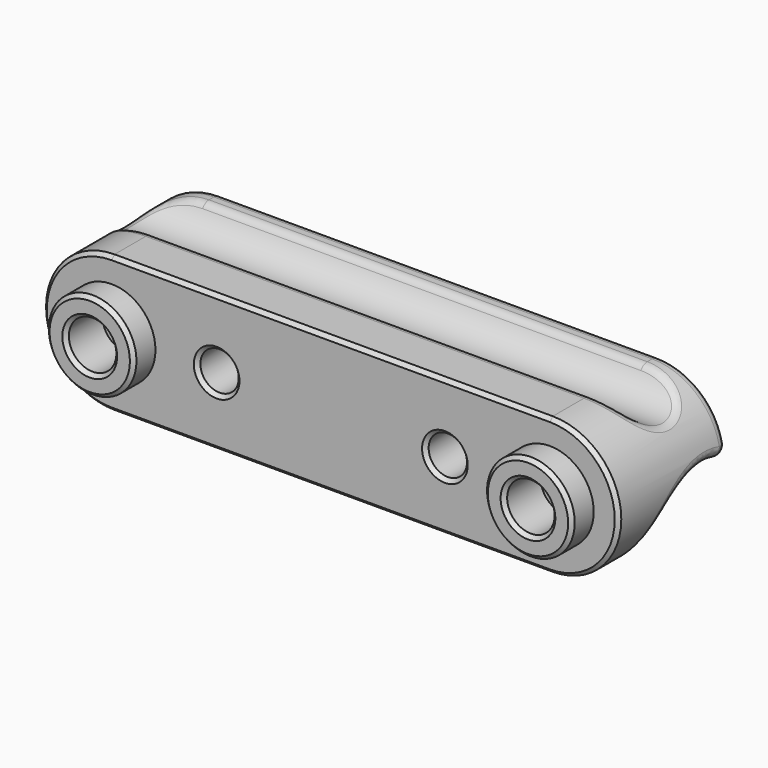
from build123d import *

# Parameters (mm, degrees)
SKETCH039_R          = 4.8
PAD016_DEPTH         = 3
PAD017_DEPTH         = 15
SKETCH041_R          = 2.1
POCKET022_DEPTH      = 5
SKETCH042_R          = 2.6
POCKET023_DEPTH      = 5
CHAMFER020_SIZE      = 0.4
SKETCH043_R          = 7.5
SKETCH043_R_2        = 4
POCKET024_DEPTH      = 31.501
POCKET024_DEPTH_BACK = 31.501
FILLET023_R          = 1


with BuildPart() as part:
    # Sketch039 → Pad016 (new body)
    with BuildSketch(Plane.XZ):
        with Locations((-24, 40)):
            Circle(SKETCH039_R)
        with Locations((24, 40)):
            Circle(SKETCH039_R)
    extrude(amount=-PAD016_DEPTH)

    # Sketch040 (on Face6 of Pad016) → Pad017 (join)
    with BuildSketch(Plane(origin=(0, 3, 0), x_dir=(-1, 0, 0), z_dir=(0, 1, 0))):
        with BuildLine():
            ThreePointArc((-24, 47.5), (-31.5, 40), (-24, 32.5))
            Line((-24, 32.5), (24, 32.5))
            ThreePointArc((24, 32.5), (31.5, 40), (24, 47.5))
            Line((24, 47.5), (-24, 47.5))
        make_face()
    extrude(amount=PAD017_DEPTH)

    # Sketch041 (on Face3 of Pad017) → Pocket022 (cut)
    with BuildSketch(Plane.XZ.offset(-3)):
        with Locations((-12.5, 40)):
            Circle(SKETCH041_R)
        with Locations((12.5, 40)):
            Circle(SKETCH041_R)
    extrude(amount=-POCKET022_DEPTH, mode=Mode.SUBTRACT)

    # Sketch042 → Pocket023 (cut)
    with BuildSketch(Plane.XZ):
        with Locations((-24, 40)):
            Circle(SKETCH042_R)
        with Locations((24, 40)):
            Circle(SKETCH042_R)
    extrude(amount=-POCKET023_DEPTH, mode=Mode.SUBTRACT)

    # Chamfer020
    chamfer020_edges = [part.edges().sort_by_distance(p)[0] for p in [
        (-26.6, 0, 40),
        (21.4, 0, 40),
        (-28.8, 0, 40),
        (19.2, 0, 40),
        (-14.6, 3, 40),
        (10.4, 3, 40),
        (0, 3, 47.5),
    ]]
    chamfer(chamfer020_edges, length=CHAMFER020_SIZE)

    # Sketch043 → Pocket024 (cut, two sides)
    with BuildSketch(Plane.YZ) as pocket024_sk:
        with Locations((15, 33)):
            Circle(SKETCH043_R)
        with Locations((12, 49)):
            Circle(SKETCH043_R_2)
    extrude(amount=-POCKET024_DEPTH, mode=Mode.SUBTRACT)
    extrude(pocket024_sk.sketch, amount=POCKET024_DEPTH_BACK, mode=Mode.SUBTRACT)

    # Fillet023
    fillet023_edges = [part.edges().sort_by_distance(p)[0] for p in [
        (31.142644, 9.165423, 37.712505),
        (29.59017, 12, 45),
        (0, 18, 39.873864),
        (29.347711, 18, 45.258516),
    ]]
    fillet(fillet023_edges, radius=FILLET023_R)


solid = part.part
